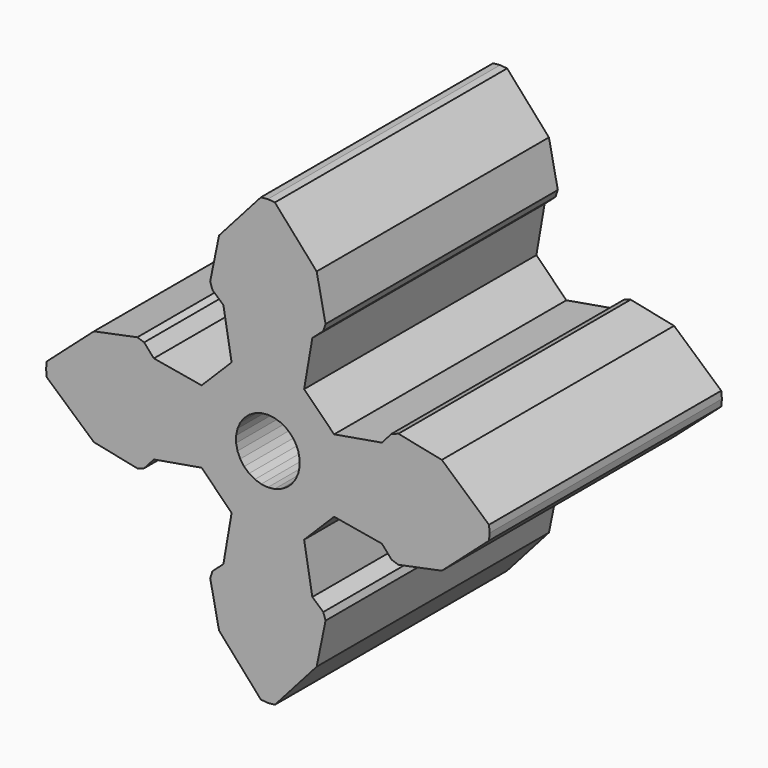
from build123d import *

# Parameters (mm, degrees)
F1_DEPTH = 10


with BuildPart() as f1:
    # F0 (on Front) → F1 (new body)
    with BuildSketch(Plane.XZ):
        Polygon((-1.680939, -5.992074), (-0.241203, -7.615681), (0, -7.639437), (0.241203, -7.615681), (1.680939, -5.992074), (1.986931, -4.496766), (1.908474, -4.261395), (1.532129, -3.927671), (1.248645, -2.281909), (2.281909, -1.248645), (3.927671, -1.532129), (4.261395, -1.908474), (4.496766, -1.986931), (5.992074, -1.680939), (7.615681, -0.241203), (7.639437, 0), (7.615681, 0.241203), (5.992074, 1.680939), (4.496766, 1.986931), (4.261395, 1.908474), (3.927671, 1.532129), (2.281909, 1.248645), (1.248645, 2.281909), (1.532129, 3.927671), (1.908474, 4.261395), (1.986931, 4.496766), (1.680939, 5.992074), (0.241203, 7.615681), (0, 7.639437), (-0.241203, 7.615681), (-1.680939, 5.992074), (-1.986931, 4.496766), (-1.908474, 4.261395), (-1.532129, 3.927671), (-1.248645, 2.281909), (-2.281909, 1.248645), (-3.927671, 1.532129), (-4.261395, 1.908474), (-4.496766, 1.986931), (-5.992074, 1.680939), (-7.615681, 0.241203), (-7.639437, 0), (-7.615681, -0.241203), (-5.992074, -1.680939), (-4.496766, -1.986931), (-4.261395, -1.908474), (-3.927671, -1.532129), (-2.281909, -1.248645), (-1.248645, -2.281909), (-1.532129, -3.927671), (-1.908474, -4.261395), (-1.986931, -4.496766), align=None)
        Polygon((0.44741, -1.0049), (0.228703, -1.075962), (0, -1.1), (-0.228703, -1.075962), (-0.44741, -1.0049), (-0.646564, -0.889919), (-0.817459, -0.736044), (-0.952628, -0.55), (-1.046162, -0.339919), (-1.093974, -0.114981), (-1.093974, 0.114981), (-1.046162, 0.339919), (-0.952628, 0.55), (-0.817459, 0.736044), (-0.646564, 0.889919), (-0.44741, 1.0049), (-0.228703, 1.075962), (0, 1.1), (0.228703, 1.075962), (0.44741, 1.0049), (0.646564, 0.889919), (0.817459, 0.736044), (0.952628, 0.55), (1.046162, 0.339919), (1.093974, 0.114981), (1.093974, -0.114981), (1.046162, -0.339919), (0.952628, -0.55), (0.817459, -0.736044), (0.646564, -0.889919), align=None, mode=Mode.SUBTRACT)
    extrude(amount=F1_DEPTH)


solid = f1.part
